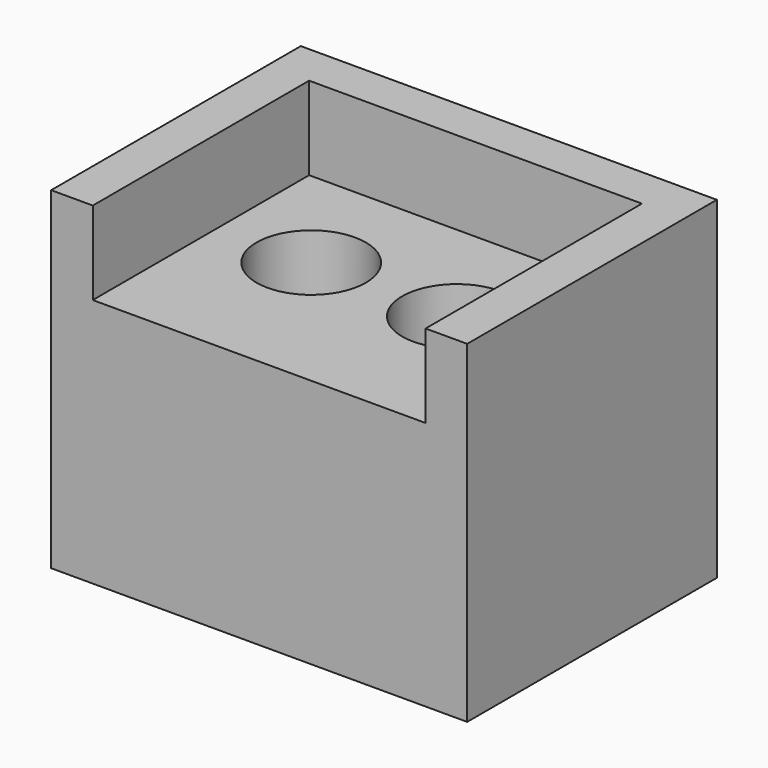
from build123d import *

# Parameters (mm, degrees)
F0_W     = 16
F0_H     = 13
F0_R     = 2.625
F1_DEPTH = 12
F2_DEPTH = 16


with BuildPart() as f1:
    # F0 (on Top) → F1 (new body)
    with BuildSketch(Plane.XY):
        with Locations((0, -1)):
            Rectangle(F0_W, F0_H)
        with Locations((-3.5, 0)):
            Circle(F0_R, mode=Mode.SUBTRACT)
        with Locations((3.5, 0)):
            Circle(F0_R, mode=Mode.SUBTRACT)
    extrude(amount=F1_DEPTH)

    # F0 (on Top) → F2 (join)
    with BuildSketch(Plane.XY):
        Polygon((8, -7.5), (10, -7.5), (10, 7.5), (-10, 7.5), (-10, -7.5), (-8, -7.5), (-8, 5.5), (8, 5.5), align=None)
    extrude(amount=F2_DEPTH)


solid = f1.part
